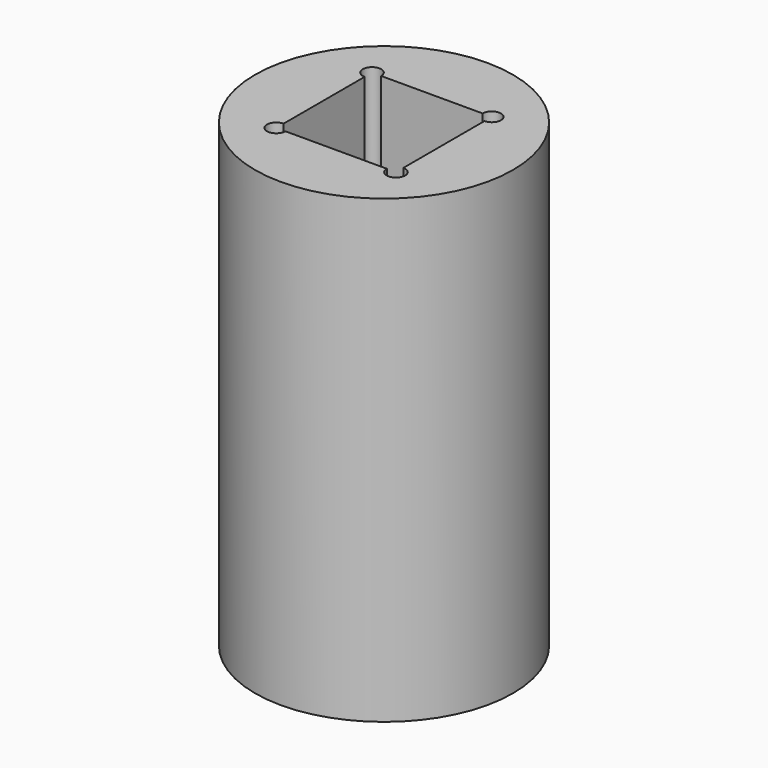
from build123d import *

# Parameters (mm, degrees)
F0_R     = 7
F1_DEPTH = 25
F3_DEPTH = 9


with BuildPart() as f1:
    # F0 (on Top) → F1 (new body)
    with BuildSketch(Plane.XY):
        Circle(F0_R)
    extrude(amount=F1_DEPTH)

    # F2 (on face) → F3 (cut)
    with BuildSketch(Plane.XY.offset(25)):
        with BuildLine():
            Line((2.75, 3.25), (-2.75, 3.25))
            ThreePointArc((-2.75, 3.25), (-2.8964466094, 2.8964466094), (-3.25, 2.75))
            Line((-3.25, 2.75), (-3.25, -2.75))
            ThreePointArc((-3.25, -2.75), (-2.8964466094, -2.8964466094), (-2.75, -3.25))
            Line((-2.75, -3.25), (2.75, -3.25))
            ThreePointArc((2.75, -3.25), (2.8964466094, -2.8964466094), (3.25, -2.75))
            Line((3.25, -2.75), (3.25, 2.75))
            ThreePointArc((3.25, 2.75), (2.8964466094, 2.8964466094), (2.75, 3.25))
        make_face()
        with BuildLine():
            Line((-3.25, 3.25), (-2.75, 3.25))
            ThreePointArc((-2.75, 3.25), (-3.6035533906, 3.6035533906), (-3.25, 2.75))
            Line((-3.25, 2.75), (-3.25, 3.25))
        make_face()
        with BuildLine():
            Line((-3.25, -3.25), (-3.25, -2.75))
            ThreePointArc((-3.25, -2.75), (-3.6035533906, -3.6035533906), (-2.75, -3.25))
            Line((-2.75, -3.25), (-3.25, -3.25))
        make_face()
        with BuildLine():
            ThreePointArc((-2.75, -3.25), (-2.8964466094, -2.8964466094), (-3.25, -2.75))
            Line((-3.25, -2.75), (-3.25, -3.25))
            Line((-3.25, -3.25), (-2.75, -3.25))
        make_face()
        with BuildLine():
            ThreePointArc((-3.25, 2.75), (-2.8964466094, 2.8964466094), (-2.75, 3.25))
            Line((-2.75, 3.25), (-3.25, 3.25))
            Line((-3.25, 3.25), (-3.25, 2.75))
        make_face()
        with BuildLine():
            Line((3.25, 3.25), (2.75, 3.25))
            ThreePointArc((2.75, 3.25), (2.8964466094, 2.8964466094), (3.25, 2.75))
            Line((3.25, 2.75), (3.25, 3.25))
        make_face()
        with BuildLine():
            ThreePointArc((3.75, 3.25), (3.25, 3.75), (2.75, 3.25))
            Line((2.75, 3.25), (3.25, 3.25))
            Line((3.25, 3.25), (3.25, 2.75))
            ThreePointArc((3.25, 2.75), (3.6035533906, 2.8964466094), (3.75, 3.25))
        make_face()
        with BuildLine():
            Line((3.25, -3.25), (3.25, -2.75))
            ThreePointArc((3.25, -2.75), (2.8964466094, -2.8964466094), (2.75, -3.25))
            Line((2.75, -3.25), (3.25, -3.25))
        make_face()
        with BuildLine():
            ThreePointArc((3.75, -3.25), (3.6035533906, -2.8964466094), (3.25, -2.75))
            Line((3.25, -2.75), (3.25, -3.25))
            Line((3.25, -3.25), (2.75, -3.25))
            ThreePointArc((2.75, -3.25), (3.25, -3.75), (3.75, -3.25))
        make_face()
    extrude(amount=-F3_DEPTH, mode=Mode.SUBTRACT)


solid = f1.part
